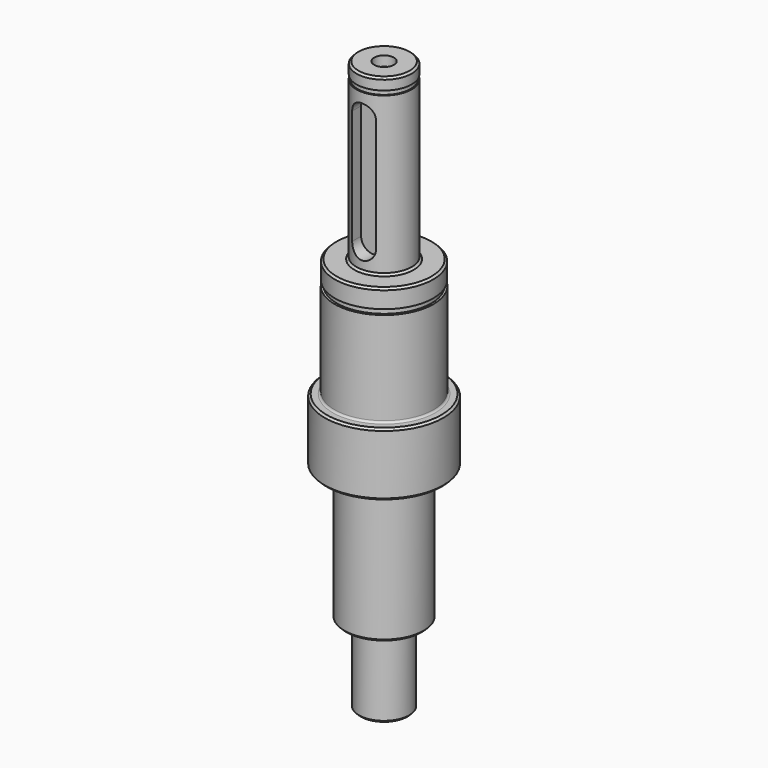
from build123d import *

# Parameters (mm, degrees)
F2_SIZE  = 0.5
F3_R     = 0.5
F6_DEPTH = 3.5


with BuildPart() as f1:
    # F0 (on Front) → F1 (revolve)
    with BuildSketch(Plane.XZ):
        Polygon((0, 15), (0, 0), (0, -114), (2.5, -116.5), (2.5, -121.5), (5, -124), (6.35, -124), (6.35, -104), (10, -104), (10, -70), (15, -70), (15, -54), (12.5, -54), (12.5, -30), (11.95, -30), (11.95, -28.7), (12.475, -28.7), (12.475, -24), (7, -24), (7, 16), (6.7, 16), (6.7, 17.1), (6.975, 17.1), (6.975, 20), (2.5, 20), (2.5, 17.5), align=None)
    revolve(axis=Axis((0, 0, 55.465363), (0, 0, 1)))

    # F2
    f2_edges = [f1.edges().sort_by_distance(p)[0] for p in [
        (-6.975, 0, 20),
        (-12.475, 0, -24),
        (-7, 0, -24),
        (-6.35, 0, -104),
        (-10, 0, -104),
        (-6.35, 0, -124),
        (-15, 0, -54),
        (-10, 0, -70),
        (-15, 0, -70),
    ]]
    chamfer(f2_edges, length=F2_SIZE)

    # F3
    f3_edges = [f1.edges().sort_by_distance(p)[0] for p in [
        (-12.5, 0, -54),
    ]]
    fillet(f3_edges, radius=F3_R)

    # F5 (on offset) → F6 (cut)
    with BuildSketch(Plane.XZ.offset(7)):
        with BuildLine():
            Line((3, -18.5), (3, 10.5))
            ThreePointArc((3, 10.5), (0, 13.5), (-3, 10.5))
            Line((-3, 10.5), (-3, -18.5))
            ThreePointArc((-3, -18.5), (0, -21.5), (3, -18.5))
        make_face()
    extrude(amount=-F6_DEPTH, mode=Mode.SUBTRACT)


solid = f1.part
